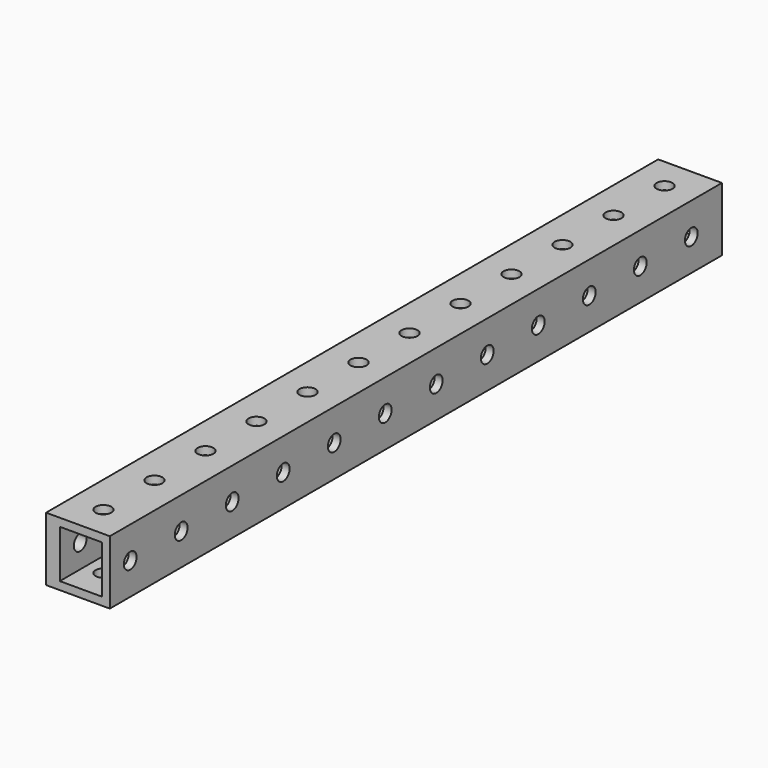
from build123d import *

# Parameters (mm, degrees)
F0_W     = 25.4
F0_H     = 304.8
F1_DEPTH = 25.4
F2_W     = 16.753317
F2_H     = 19.05
F3_DEPTH = 304.8
F5_D     = 6.35
F7_D     = 6.35


with BuildPart() as f1:
    # F0 (on Top) → F1 (new body)
    with BuildSketch(Plane.XY):
        with Locations((7.228317, 134.828891)):
            Rectangle(F0_W, F0_H)
    extrude(amount=F1_DEPTH)

    # F2 (on face) → F3 (cut)
    with BuildSketch(Plane(origin=(0, 287.228891, 0), x_dir=(-1, 0, 0), z_dir=(0, 1, 0))):
        with Locations((-8.376658, 12.7)):
            Rectangle(F2_W, F2_H)
    extrude(amount=-F3_DEPTH, mode=Mode.SUBTRACT)

    # F5 (through all)
    with Locations(Plane(origin=(-5.471683, 0, 0), x_dir=(0, -1, 0), z_dir=(-1, 0, 0))):
        with Locations((-271.976191, 12.7), (-17.976191, 12.7), (-43.376191, 12.7), (-68.776191, 12.7), (-94.176191, 12.7), (-119.576191, 12.7), (-144.976191, 12.7), (-170.376191, 12.7), (-195.776191, 12.7), (-221.176191, 12.7), (-246.576191, 12.7), (7.423809, 12.7)):
            Hole(F5_D / 2)

    # F7 (through all)
    with Locations(Plane.XY.offset(25.4)):
        with Locations((7.228317, 45.928891), (7.228317, 20.528891), (7.228317, -4.871109), (7.228317, 147.528891), (7.228317, 172.928891), (7.228317, 96.728891), (7.228317, 122.128891), (7.228317, 71.328891), (7.228317, 249.128891), (7.228317, 274.528891), (7.228317, 223.728891), (7.228317, 198.328891)):
            Hole(F7_D / 2)


solid = f1.part
